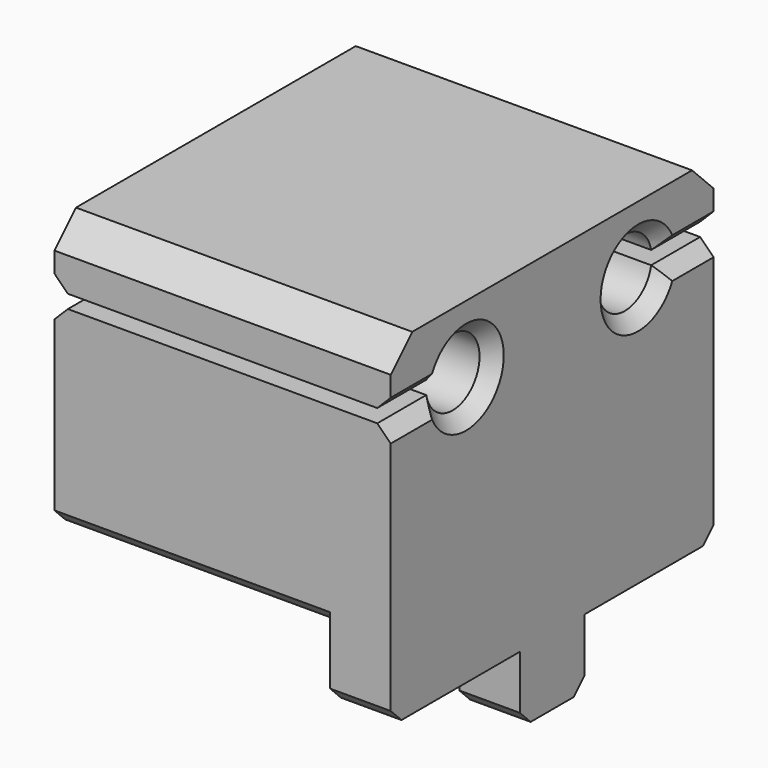
from build123d import *

# Parameters (mm, degrees)
CYLINDER025_R      = 6
CYLINDER025_DEPTH  = 5
BOX025_W           = 25
BOX025_H           = 6
BOX025_DEPTH       = 1
CYLINDER023_R      = 2.5
CYLINDER023_DEPTH  = 25
BOX026_W           = 25
BOX026_H           = 6
BOX026_DEPTH       = 1
CYLINDER024_R      = 2.5
CYLINDER024_DEPTH  = 25
BOX023_W           = 4.5
BOX023_H           = 30
BOX023_DEPTH       = 6
CHAMFER006015_SIZE = 1
BOX024_W           = 4.5
BOX024_H           = 6
BOX024_DEPTH       = 5
CHAMFER006016_SIZE = 1
BOX022_W           = 25
BOX022_H           = 30
BOX022_DEPTH       = 20
CHAMFER006017_SIZE = 2
CHAMFER006018_SIZE = 1
CHAMFER006023_SIZE = 1


with BuildPart() as cylinder025:
    # Cylinder025 → Cylinder025 (new body)
    with BuildSketch(Plane(origin=(25, 0, 0), x_dir=(1, 0, 0), z_dir=(0, 0, 1))):
        Circle(CYLINDER025_R)
    extrude(amount=CYLINDER025_DEPTH)


with BuildPart() as cube025:
    # Box025 → Box025 (new body)
    with BuildSketch(Plane(origin=(15, -15, 14.5), x_dir=(1, 0, 0), z_dir=(0, 0, 1))):
        with Locations((12.5, 3)):
            Rectangle(BOX025_W, BOX025_H)
    extrude(amount=BOX025_DEPTH)


with BuildPart() as cylinder023:
    # Cylinder023 → Cylinder023 (new body)
    with BuildSketch(Plane(origin=(15, 8, 15), x_dir=(0, 0, -1), z_dir=(1, 0, 0))):
        Circle(CYLINDER023_R)
    extrude(amount=CYLINDER023_DEPTH)


with BuildPart() as cube026:
    # Box026 → Box026 (new body)
    with BuildSketch(Plane(origin=(15, 9, 14.5), x_dir=(1, 0, 0), z_dir=(0, 0, 1))):
        with Locations((12.5, 3)):
            Rectangle(BOX026_W, BOX026_H)
    extrude(amount=BOX026_DEPTH)


with BuildPart() as fusion020006007003002009015:
    # Cylinder024 → Cylinder024 (new body)
    with BuildSketch(Plane(origin=(15, -8, 15), x_dir=(0, 0, -1), z_dir=(1, 0, 0))):
        Circle(CYLINDER024_R)
    extrude(amount=CYLINDER024_DEPTH)

    # Fusion020006007003002009015: union Cube025, Cylinder023, Cube026
    add(cube025.part)
    add(cylinder023.part)
    add(cube026.part)


with BuildPart() as chamfer006015:
    # Box023 → Box023 (new body)
    with BuildSketch(Plane(origin=(35.5, -15, -5), x_dir=(1, 0, 0), z_dir=(0, 0, 1))):
        with Locations((2.25, 15)):
            Rectangle(BOX023_W, BOX023_H)
    extrude(amount=BOX023_DEPTH)

    # Chamfer006015
    chamfer006015_edges = [chamfer006015.edges().sort_by_distance(p)[0] for p in [
        (37.75, -15, -5),
        (37.75, 15, -5),
    ]]
    chamfer(chamfer006015_edges, length=CHAMFER006015_SIZE)


with BuildPart() as chamfer006016:
    # Box024 → Box024 (new body)
    with BuildSketch(Plane(origin=(35.5, -3, -10), x_dir=(1, 0, 0), z_dir=(0, 0, 1))):
        with Locations((2.25, 3)):
            Rectangle(BOX024_W, BOX024_H)
    extrude(amount=BOX024_DEPTH)

    # Chamfer006016
    chamfer006016_edges = [chamfer006016.edges().sort_by_distance(p)[0] for p in [
        (37.75, -3, -10),
        (37.75, 3, -10),
    ]]
    chamfer(chamfer006016_edges, length=CHAMFER006016_SIZE)


with BuildPart() as obj1:
    # Box022 → Box022 (new body)
    with BuildSketch(Plane(origin=(15, -15, 0), x_dir=(1, 0, 0), z_dir=(0, 0, 1))):
        with Locations((12.5, 15)):
            Rectangle(BOX022_W, BOX022_H)
    extrude(amount=BOX022_DEPTH)

    # Chamfer006017
    chamfer006017_edges = [obj1.edges().sort_by_distance(p)[0] for p in [
        (27.5, -15, 20),
        (27.5, 15, 20),
    ]]
    chamfer(chamfer006017_edges, length=CHAMFER006017_SIZE)

    # Chamfer006018
    chamfer006018_edges = [obj1.edges().sort_by_distance(p)[0] for p in [
        (27.5, -15, 0),
        (27.5, 15, 0),
    ]]
    chamfer(chamfer006018_edges, length=CHAMFER006018_SIZE)

    # Fusion020006007003002009014: union Chamfer006015, Chamfer006016
    add(chamfer006015.part)
    add(chamfer006016.part)

    # Cut015: cut Fusion020006007003002009015
    add(fusion020006007003002009015.part, mode=Mode.SUBTRACT)

    # Cut016: cut Cylinder025
    add(cylinder025.part, mode=Mode.SUBTRACT)

    # Chamfer006023
    chamfer006023_edges = [obj1.edges().sort_by_distance(p)[0] for p in [
        (15, -12.724745, 14.5),
        (15, -9.581139, 13.063508),
        (15, -6.063508, 16.581139),
        (15, -12.724745, 15.5),
        (15, 12.724745, 15.5),
        (15, 6.063508, 16.581139),
        (15, 9.581139, 13.063508),
        (15, 12.724745, 14.5),
        (40, -12.724745, 14.5),
        (40, -9.581139, 13.063508),
        (40, -6.063508, 16.581139),
        (40, -12.724745, 15.5),
        (40, 12.724745, 15.5),
        (40, 6.063508, 16.581139),
        (40, 9.581139, 13.063508),
        (40, 12.724745, 14.5),
    ]]
    chamfer(chamfer006023_edges, length=CHAMFER006023_SIZE)


solid = obj1.part
